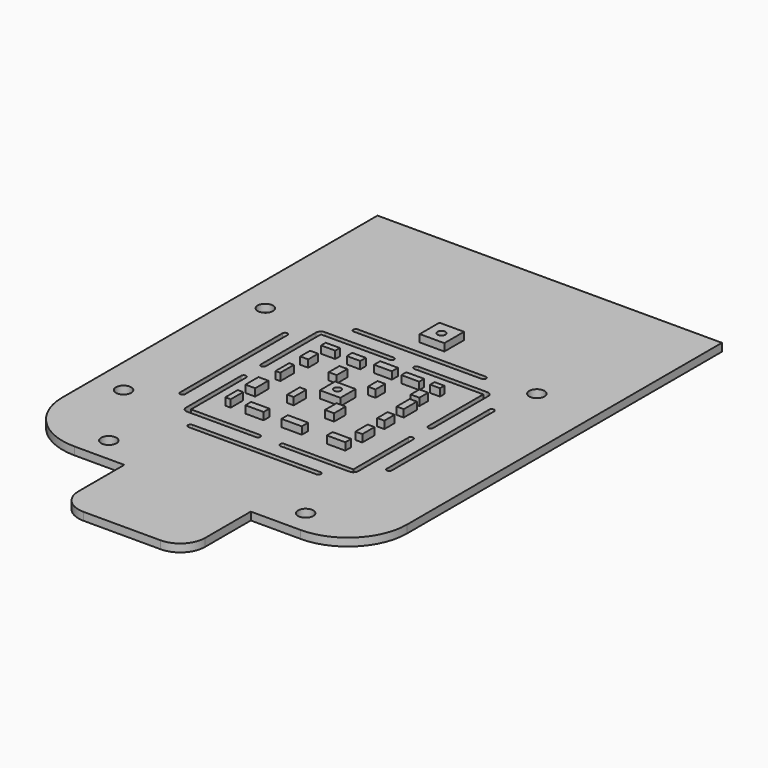
from build123d import *

# Parameters (mm, degrees)
SKETCH005_R             = 1.55
PAD_DEPTH               = 1.6
SKETCH016_W             = 1.994334
SKETCH016_H             = 1.107967
SKETCH016_W_2           = 3.619357
SKETCH016_H_2           = 1.255696
SKETCH016_H_3           = 1.551151
SKETCH016_W_3           = 2.732976
SKETCH016_H_4           = 1.403424
SKETCH016_W_4           = 2.880716
SKETCH016_H_5           = 1.181828
SKETCH016_W_5           = 1.625016
SKETCH016_H_6           = 2.51139
SKETCH016_W_6           = 0.960235
SKETCH016_H_7           = 3.47163
SKETCH016_W_7           = 1.994338
SKETCH016_H_8           = 3.323896
SKETCH016_W_8           = 1.107967
SKETCH016_H_9           = 3.176168
SKETCH016_W_9           = 3.693223
SKETCH016_H_10          = 1.477287
SKETCH016_W_10          = 4.13641
SKETCH016_H_11          = 1.625017
SKETCH016_W_11          = 3.76297
SKETCH016_H_12          = 1.485384
SKETCH016_W_12          = 1.395884
SKETCH016_H_13          = 3.115539
SKETCH016_W_13          = 1.446203
SKETCH016_H_14          = 2.63131
SKETCH016_W_14          = 1.448886
SKETCH016_H_15          = 3.323898
SKETCH016_W_15          = 1.772745
SKETCH016_H_16          = 2.215931
SKETCH016_W_16          = 1.625013
SKETCH016_H_17          = 2.707825
SKETCH016_W_17          = 1.312852
SKETCH016_H_18          = 3.187283
SKETCH016_W_18          = 1.846609
SKETCH016_H_19          = 2.954575
SKETCH016_W_19          = 1.551152
SKETCH016_H_20          = 2.46188
SKETCH016_W_20          = 4.159074
SKETCH016_H_21          = 3.862
SKETCH016_R             = 0.720914
SKETCH016_W_21          = 5
SKETCH016_H_22          = 5
SKETCH016_R_2           = 0.816015
PAD004_DEPTH            = 2
PAD007_DEPTH            = 1.6
BODY002_PLACEMENT_ANGLE = 180


with BuildPart() as part:
    # Sketch005 → Pad (new body)
    with BuildSketch(Plane.XY):
        with BuildLine():
            Line((-35, 92), (35, 92))
            Line((35, 92), (35, 12))
            ThreePointArc((23, 0), (31.485281, 3.514719), (35, 12))
            Line((23, 0), (-23, 0))
            ThreePointArc((-35, 12), (-31.485281, 3.514719), (-23, 0))
            Line((-35, 12), (-35, 92))
        make_face()
        with Locations((-23, 60)):
            Circle(SKETCH005_R, mode=Mode.SUBTRACT)
        with Locations((29, 56)):
            Circle(SKETCH005_R, mode=Mode.SUBTRACT)
        with Locations((29, 20)):
            Circle(SKETCH005_R, mode=Mode.SUBTRACT)
        with Locations((20, 5)):
            Circle(SKETCH005_R, mode=Mode.SUBTRACT)
        with Locations((-20, 5)):
            Circle(SKETCH005_R, mode=Mode.SUBTRACT)
        with BuildLine():
            Line((-2.5, 54.5), (-16.5, 54.5))
            Line((-16.5, 54.5), (-16.5, 40.5))
            ThreePointArc((-17.5, 40.5), (-17, 40), (-16.5, 40.5))
            Line((-17.5, 40.5), (-17.5, 54.5))
            ThreePointArc((-16.5, 55.5), (-17.207107, 55.207107), (-17.5, 54.5))
            Line((-16.5, 55.5), (-2.5, 55.5))
            ThreePointArc((-2.5, 54.5), (-2, 55), (-2.5, 55.5))
        make_face(mode=Mode.SUBTRACT)
        with BuildLine():
            Line((2.5, 21.5), (16.5, 21.5))
            Line((16.5, 21.5), (16.5, 35.5))
            ThreePointArc((17.5, 35.5), (17, 36), (16.5, 35.5))
            Line((17.5, 35.5), (17.5, 21.5))
            ThreePointArc((16.5, 20.5), (17.207107, 20.792893), (17.5, 21.5))
            Line((16.5, 20.5), (2.5, 20.5))
            ThreePointArc((2.5, 21.5), (2, 21), (2.5, 20.5))
        make_face(mode=Mode.SUBTRACT)
        with BuildLine():
            Line((2.5, 54.5), (16.5, 54.5))
            Line((16.5, 40.5), (16.5, 54.5))
            ThreePointArc((16.5, 40.5), (17, 40), (17.5, 40.5))
            Line((17.5, 54.5), (17.5, 40.5))
            ThreePointArc((17.5, 54.5), (17.207107, 55.207107), (16.5, 55.5))
            Line((16.5, 55.5), (2.5, 55.5))
            ThreePointArc((2.5, 55.5), (2, 55), (2.5, 54.5))
        make_face(mode=Mode.SUBTRACT)
        with BuildLine():
            Line((-2.5, 21.5), (-16.5, 21.5))
            Line((-16.5, 35.5), (-16.5, 21.5))
            ThreePointArc((-16.5, 35.5), (-17, 36), (-17.5, 35.5))
            Line((-17.5, 21.5), (-17.5, 35.5))
            ThreePointArc((-17.5, 21.5), (-17.207107, 20.792893), (-16.5, 20.5))
            Line((-16.5, 20.5), (-2.5, 20.5))
            ThreePointArc((-2.5, 20.5), (-2, 21), (-2.5, 21.5))
        make_face(mode=Mode.SUBTRACT)
        with BuildLine():
            Line((-13, 59.5), (13, 59.5))
            ThreePointArc((13, 58.5), (13.5, 59), (13, 59.5))
            Line((-13, 58.5), (13, 58.5))
            ThreePointArc((-13, 59.5), (-13.5, 59), (-13, 58.5))
        make_face(mode=Mode.SUBTRACT)
        with BuildLine():
            Line((13, 16.5), (-13, 16.5))
            ThreePointArc((-13, 17.5), (-13.5, 17), (-13, 16.5))
            Line((13, 17.5), (-13, 17.5))
            ThreePointArc((13, 16.5), (13.5, 17), (13, 17.5))
        make_face(mode=Mode.SUBTRACT)
        with BuildLine():
            Line((-21.5, 51), (-21.5, 25))
            ThreePointArc((-21.5, 25), (-21, 24.5), (-20.5, 25))
            Line((-20.5, 51), (-20.5, 25))
            ThreePointArc((-20.5, 51), (-21, 51.5), (-21.5, 51))
        make_face(mode=Mode.SUBTRACT)
        with BuildLine():
            Line((21.5, 25), (21.5, 51))
            ThreePointArc((21.5, 51), (21, 51.5), (20.5, 51))
            Line((20.5, 25), (20.5, 51))
            ThreePointArc((20.5, 25), (21, 24.5), (21.5, 25))
        make_face(mode=Mode.SUBTRACT)
    extrude(amount=PAD_DEPTH)

    # Sketch016 → Pad004 (join)
    with BuildSketch(Plane.XY.offset(-1.5)):
        with Locations((-10.621927, 50.160947)):
            Rectangle(SKETCH016_W, SKETCH016_H)
        with Locations((-5.820745, 49.939356)):
            Rectangle(SKETCH016_W_2, SKETCH016_H_2)
        with Locations((-0.20705, 50.160947)):
            Rectangle(SKETCH016_W_2, SKETCH016_H_3)
        with Locations((5.480506, 49.71776)):
            Rectangle(SKETCH016_W_3, SKETCH016_H_4)
        with Locations((10.872605, 49.902422)):
            Rectangle(SKETCH016_W_4, SKETCH016_H_5)
        with Locations((11.722045, 45.544422)):
            Rectangle(SKETCH016_W_5, SKETCH016_H_6)
        with Locations((11.980572, 39.672205)):
            Rectangle(SKETCH016_W_6, SKETCH016_H_7)
        with Locations((12.276028, 32.950547)):
            Rectangle(SKETCH016_W_7, SKETCH016_H_8)
        with Locations((12.497625, 27.484584)):
            Rectangle(SKETCH016_W_8, SKETCH016_H_9)
        with Locations((6.994723, 26.487413)):
            Rectangle(SKETCH016_W_9, SKETCH016_H_10)
        with Locations((-0.613303, 26.487414)):
            Rectangle(SKETCH016_W_10, SKETCH016_H_11)
        with Locations((-9.603089, 26.466649)):
            Rectangle(SKETCH016_W_11, SKETCH016_H_12)
        with Locations((-11.142747, 31.147487)):
            Rectangle(SKETCH016_W_12, SKETCH016_H_13)
        with Locations((-10.969857, 36.694603)):
            Rectangle(SKETCH016_W_13, SKETCH016_H_14)
        with Locations((-10.894651, 42.061836)):
            Rectangle(SKETCH016_W_14, SKETCH016_H_15)
        with Locations((-10.215674, 46.13534)):
            Rectangle(SKETCH016_W_15, SKETCH016_H_16)
        with Locations((4.805575, 44.245694)):
            Rectangle(SKETCH016_W_16, SKETCH016_H_17)
        with Locations((5.287496, 34.348413)):
            Rectangle(SKETCH016_W_17, SKETCH016_H_18)
        with Locations((-2.940033, 33.873852)):
            Rectangle(SKETCH016_W_18, SKETCH016_H_19)
        with Locations((-3.112926, 44.121912)):
            Rectangle(SKETCH016_W_19, SKETCH016_H_20)
        with Locations((0.745081, 39.092407)):
            Rectangle(SKETCH016_W_20, SKETCH016_H_21)
        with Locations((0.844105, 39.141918)):
            Circle(SKETCH016_R, mode=Mode.SUBTRACT)
        with Locations((0.024826, 64.643266)):
            Rectangle(SKETCH016_W_21, SKETCH016_H_22)
        with Locations((0, 64.519768)):
            Circle(SKETCH016_R_2, mode=Mode.SUBTRACT)
    extrude(amount=PAD004_DEPTH)

    # Sketch023 → Pad007 (join)
    with BuildSketch(Plane.XY):
        with BuildLine():
            Line((-12.85, 0), (12.85, 0))
            Line((12.85, 0), (12.85, -11.654535))
            ThreePointArc((7.85, -16.654535), (11.385534, -15.190069), (12.85, -11.654535))
            Line((7.85, -16.654535), (-7.85, -16.654535))
            ThreePointArc((-12.85, -11.654535), (-11.385534, -15.190069), (-7.85, -16.654535))
            Line((-12.85, -11.654535), (-12.85, 0))
        make_face()
    extrude(amount=PAD007_DEPTH)


with BuildPart() as part_1:
    # Body002 placement: moved
    add(part.part.rotate(Axis((0, 0, 0), (0, 1, 0)), BODY002_PLACEMENT_ANGLE))


solid = part_1.part
